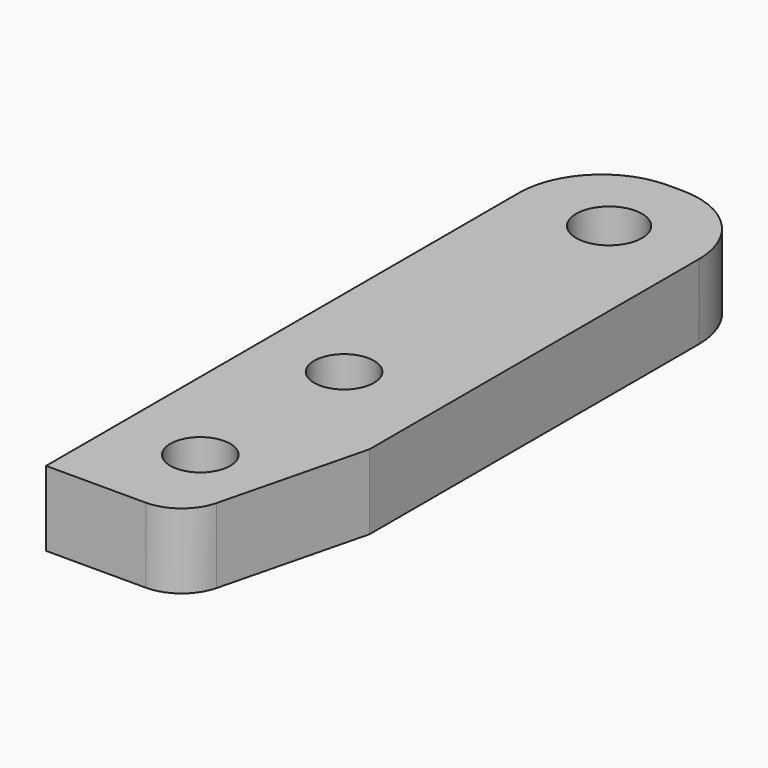
from build123d import *

# Parameters (mm, degrees)
SKETCH_W      = 12
SKETCH_H      = 45
PAD_DEPTH     = 5
SKETCH001_R   = 2.2
SKETCH001_R_2 = 2
POCKET_DEPTH  = 5.001
CHAMFER_SIZE2 = 12
CHAMFER_SIZE  = 3
FILLET_R      = 3
FILLET001_R   = 5.5


with BuildPart() as part:
    # Sketch → Pad (new body)
    with BuildSketch(Plane.XY):
        Rectangle(SKETCH_W, SKETCH_H)
    extrude(amount=PAD_DEPTH)

    # Sketch001 (on Face6 of Pad) → Pocket (cut, through all)
    with BuildSketch(Plane.XY.offset(5)):
        with Locations((0, 17)):
            Circle(SKETCH001_R)
        with Locations((-0.5, -16.5)):
            Circle(SKETCH001_R_2)
        with Locations((-0.5, -4.5)):
            Circle(SKETCH001_R_2)
    extrude(amount=-POCKET_DEPTH, mode=Mode.SUBTRACT)

    # Chamfer
    chamfer_edges = [part.edges().sort_by_distance(p)[0] for p in [
        (6, -22.5, 2.5),
    ]]
    chamfer_side = part.faces().sort_by_distance((0, -22.5, 2.5))[0]
    chamfer(chamfer_edges, length=CHAMFER_SIZE, length2=CHAMFER_SIZE2, reference=chamfer_side)

    # Fillet
    fillet_edges = [part.edges().sort_by_distance(p)[0] for p in [
        (3, -22.5, 2.5),
    ]]
    fillet(fillet_edges, radius=FILLET_R)

    # Fillet001
    fillet001_edges = [part.edges().sort_by_distance(p)[0] for p in [
        (6, 22.5, 2.5),
        (-6, 22.5, 2.5),
    ]]
    fillet(fillet001_edges, radius=FILLET001_R)


solid = part.part
